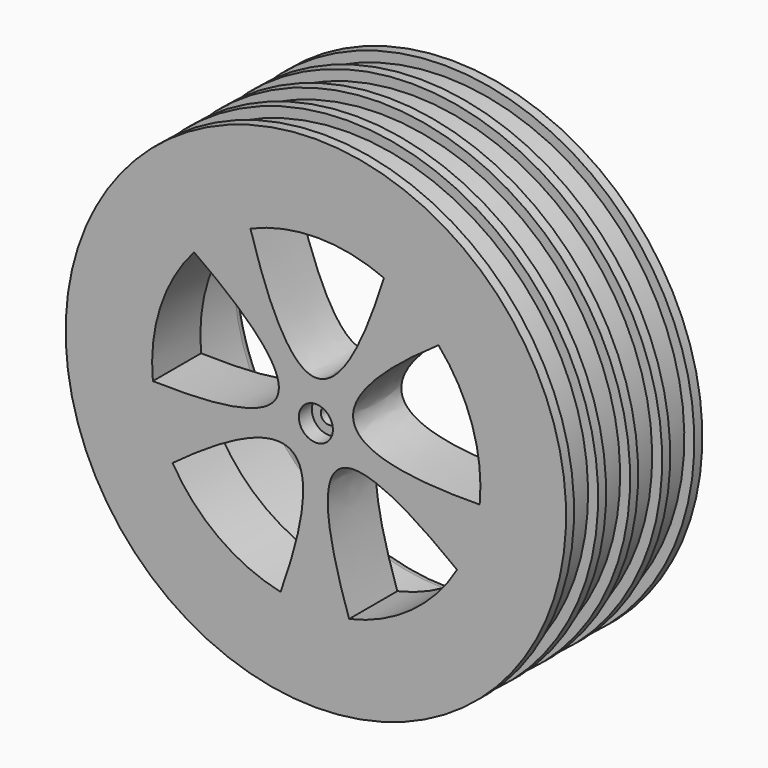
from build123d import *

# Parameters (mm, degrees)
POCKET_DEPTH       = 145.459123
POCKET_DEPTH_BACK  = 177.459123
POLARPATTERN_COUNT = 5


with BuildPart() as part:
    # Sketch009 → Revolution (revolve)
    with BuildSketch(Plane.YZ):
        with BuildLine():
            Line((-32, 25), (-31.006334, 25))
            Line((-31.006334, 24), (-31.006334, 25))
            Line((-28, 24), (-31.006334, 24))
            Line((-28, 24), (-28, 25))
            Line((-28, 25), (-27, 25))
            Line((-27, 25), (-27, 24))
            Line((-24, 24), (-27, 24))
            Line((-24, 24), (-24, 25))
            Line((-24, 25), (-23, 25))
            Line((-23, 25), (-23, 24))
            Line((-20, 24), (-23, 24))
            Line((-20, 24), (-20, 25))
            Line((-20, 25), (-19, 25))
            Line((-19, 25), (-19, 24))
            Line((-15.98482, 24), (-19, 24))
            Line((-15.98482, 25), (-15.98482, 24))
            Line((-15.98482, 25), (-14.98482, 25))
            Line((-14.98482, 25), (-14.98482, 21.997654))
            ThreePointArc((-15.998639, 21.00955), (-15.282862, 21.289299), (-14.98482, 21.997654))
            Line((-15.998639, 21.00955), (-25.00382, 21.00955))
            ThreePointArc((-25.00382, 21.00955), (-25.68626, 20.700427), (-25.977919, 20.010342))
            Line((-25.977919, 2.4), (-25.977919, 20.010342))
            Line((-28.777919, 2.4), (-25.977919, 2.4))
            Line((-28.777919, 0.8), (-28.777919, 2.4))
            Line((-30.377919, 0.8), (-28.777919, 0.8))
            Line((-30.377919, 1.7), (-30.377919, 0.8))
            Line((-32, 1.7), (-30.377919, 1.7))
            Line((-32, 25), (-32, 1.7))
        make_face()
    revolve(axis=Axis((0, 0, 0), (0, 1, 0)))

    # Sketch010 → Pocket (cut, two sides)
    with BuildSketch(Plane(origin=(-5.2, 0, 0), x_dir=(1, 0, 0), z_dir=(0, -1, 0))) as pocket_sk:
        with BuildLine():
            add(Edge.make_bspline(
                [(11.995053, 15.000581), (5.131915, -6.987182), (-1.338915, 15.000254)],
                knots=[-6.684799, -6.684799, -6.684799, 6.648635, 6.648635, 6.648635], degree=2))
            ThreePointArc((-1.338915, 15.000254), (5.328035, 16.380749), (11.995053, 15.000581))
        make_face()
    pocket = extrude(amount=-POCKET_DEPTH, mode=Mode.SUBTRACT) + extrude(pocket_sk.sketch, amount=POCKET_DEPTH_BACK, mode=Mode.SUBTRACT)

    # PolarPattern: Pocket ×5 about axis
    polarpattern_axis = Axis((0, 0, 0), (0, 1, 0))
    for i in range(1, POLARPATTERN_COUNT):
        add(pocket.rotate(polarpattern_axis, i * 360 / POLARPATTERN_COUNT), mode=Mode.SUBTRACT)


solid = part.part
